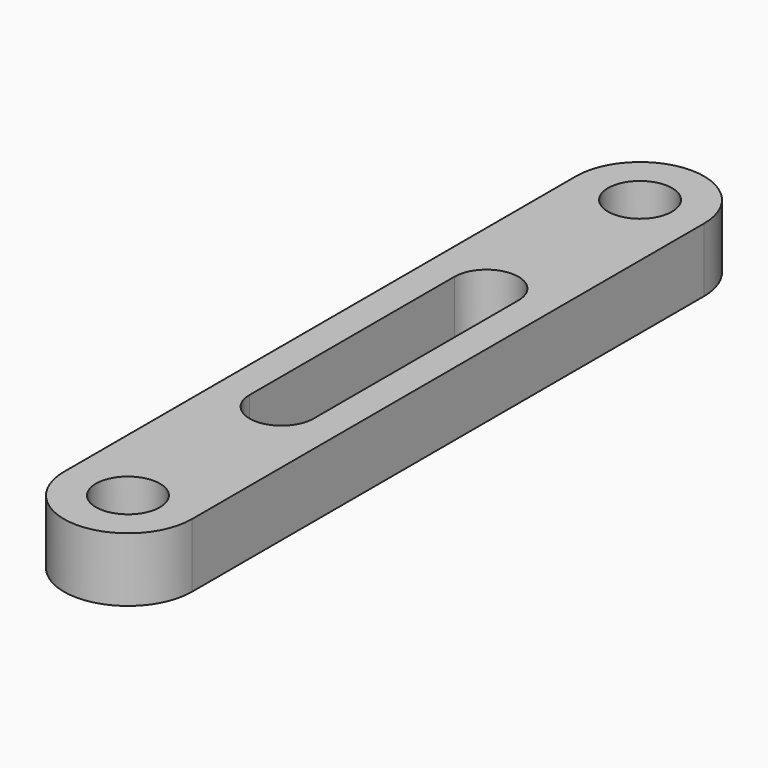
from build123d import *

# Parameters (mm, degrees)
F1_DEPTH = 10
F3_D     = 10


with BuildPart() as f1:
    # F0 (on Top) → F1 (new body)
    with BuildSketch(Plane.XY):
        with BuildLine():
            Line((10, -100), (10, 0))
            ThreePointArc((10, 0), (0, 10), (-10, 0))
            Line((-10, 0), (-10, -100))
            ThreePointArc((-10, -100), (0, -110), (10, -100))
        make_face()
        with BuildLine():
            ThreePointArc((-5, -30), (0, -25), (5, -30))
            Line((5, -30), (5, -70))
            ThreePointArc((5, -70), (0, -75), (-5, -70))
            Line((-5, -70), (-5, -30))
        make_face(mode=Mode.SUBTRACT)
    extrude(amount=F1_DEPTH)

    # F3 (through all)
    with Locations(Plane.XY.offset(10)):
        with Locations((0, 0), (0, -100)):
            Hole(F3_D / 2)


solid = f1.part
